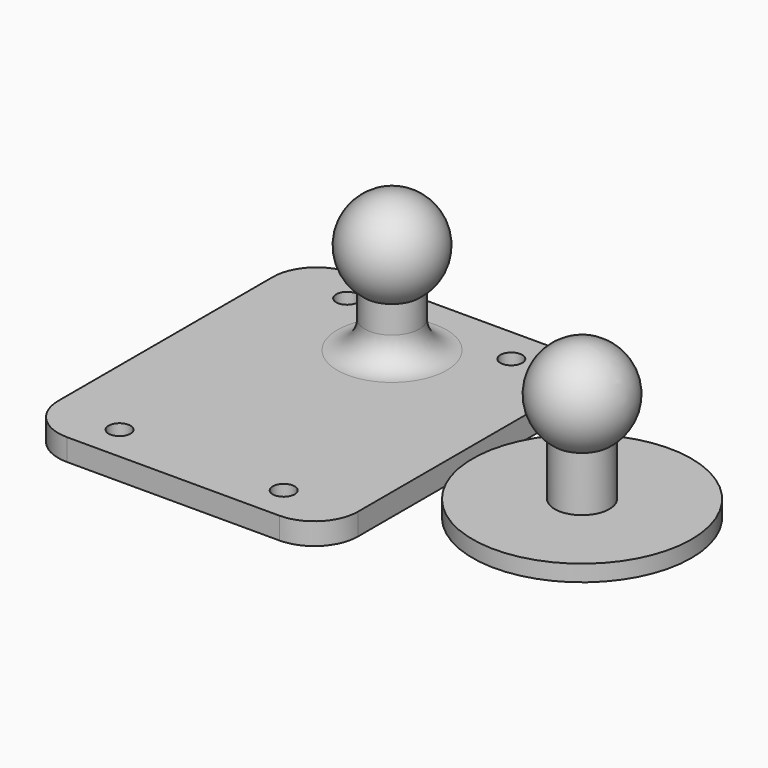
from build123d import *

# Parameters (mm, degrees)
F0_R     = 2
F1_DEPTH = 4
F4_R     = 5


with BuildPart() as f1:
    # F0 (on Top) → F1 (new body)
    with BuildSketch(Plane.XY):
        with BuildLine():
            ThreePointArc((-27.4, -24.5), (-25.0568542495, -30.1568542495), (-19.4, -32.5))
            Line((-19.4, -32.5), (19.4, -32.5))
            ThreePointArc((19.4, -32.5), (25.0568542495, -30.1568542495), (27.4, -24.5))
            Line((27.4, -24.5), (27.4, 24.5))
            ThreePointArc((27.4, 24.5), (25.0568542495, 30.1568542495), (19.4, 32.5))
            Line((19.4, 32.5), (-19.4, 32.5))
            ThreePointArc((-19.4, 32.5), (-25.0568542495, 30.1568542495), (-27.4, 24.5))
            Line((-27.4, 24.5), (-27.4, -24.5))
        make_face()
        with Locations((-15, -26)):
            Circle(F0_R, mode=Mode.SUBTRACT)
        with Locations((15, -26)):
            Circle(F0_R, mode=Mode.SUBTRACT)
        with Locations((-15, 26)):
            Circle(F0_R, mode=Mode.SUBTRACT)
        with Locations((15, 26)):
            Circle(F0_R, mode=Mode.SUBTRACT)
    extrude(amount=F1_DEPTH)

    # F2 (on Right) → F3 (revolve)
    with BuildSketch(Plane.YZ):
        with BuildLine():
            Line((17.5, 20.8738635424), (17.5, 0))
            Line((17.5, 0), (22.5, 0))
            Line((22.5, 0), (22.5, 14))
            ThreePointArc((22.5, 14), (25.5832493501, 23.5027568352), (17.5, 29.3738635424))
            Line((17.5, 29.3738635424), (17.5, 20.8738635424))
        make_face()
    revolve(axis=Axis((0, 17.5, 10.4369317712), (0, 0, -1)))

    # F4
    f4_edges = [f1.edges().sort_by_distance(p)[0] for p in [
        (0, 12.5, 4),
    ]]
    fillet(f4_edges, radius=F4_R)


with BuildPart() as f6:
    # F5 (on Front) → F6 (revolve)
    with BuildSketch(Plane.XZ):
        with BuildLine():
            Line((48.7287359181, 28.3738635424), (48.7287359181, 19.8738635424))
            Line((48.7287359181, 19.8738635424), (48.7287359181, 0))
            Line((48.7287359181, 0), (68.7287359181, 0))
            Line((68.7287359181, 0), (68.7287359181, 3))
            Line((68.7287359181, 3), (53.7287359181, 3))
            Line((53.7287359181, 3), (53.7287359181, 13))
            ThreePointArc((53.7287359181, 13), (56.8119852681, 22.5027568352), (48.7287359181, 28.3738635424))
        make_face()
    revolve(axis=Axis((48.7287359181, 0, 5.0727854547), (0, 0, -1)))


solid = Compound([f1.part, f6.part])
